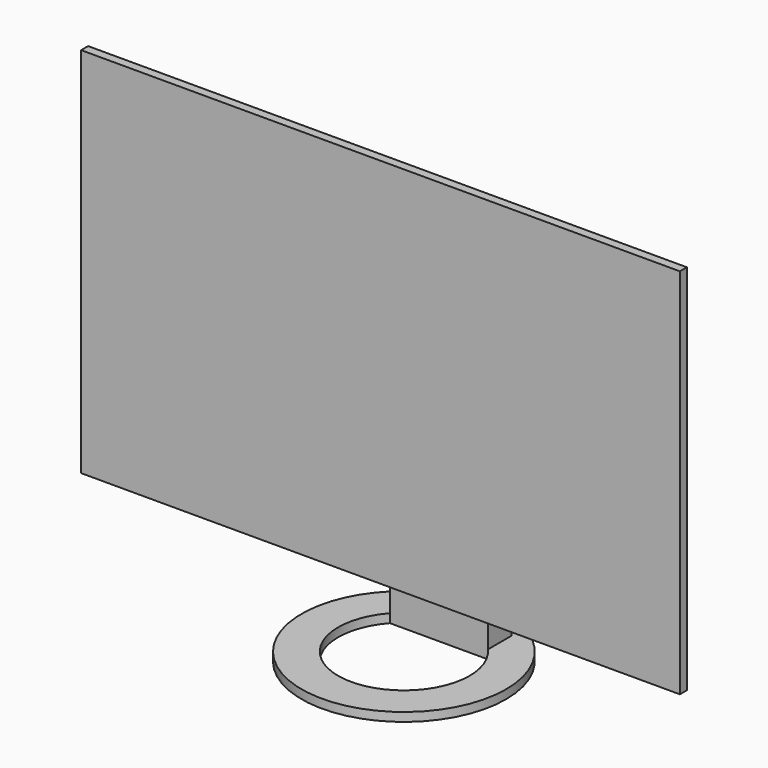
from build123d import *

# Parameters (mm, degrees)
F0_W     = 520.7
F0_H     = 323.85
F1_DEPTH = 7.62
F3_R     = 88.9
F3_R_2   = 57.15
F4_DEPTH = 7.62
F5_W     = 85.19419
F5_H     = 25.4
F6_DEPTH = 38.1
F8_DEPTH = 85.19419


with BuildPart() as f1:
    # F0 (on Front) → F1 (new body)
    with BuildSketch(Plane.XZ):
        with Locations((260.35, 161.925)):
            Rectangle(F0_W, F0_H)
    extrude(amount=-F1_DEPTH)



with BuildPart() as f4:
    # F3 (on offset) → F4 (new body)
    with BuildSketch(Plane.XY.offset(-69.85)):
        with Locations((260.35, 25.4)):
            Circle(F3_R)
        with Locations((260.35, 25.4)):
            Circle(F3_R_2, mode=Mode.SUBTRACT)
    extrude(amount=F4_DEPTH)

    # F5 (on offset) → F6 (join)
    with BuildSketch(Plane.XY.offset(-69.85)):
        with Locations((260.35, 76.2)):
            Rectangle(F5_W, F5_H)
    extrude(amount=F6_DEPTH)


with BuildPart() as f1_1:
    add(f1.part)

    add(f4.part)  # F8 merges F4
    # F7 (on face) → F8 (join, through all)
    with BuildSketch(Plane.YZ.offset(302.947095)):
        Polygon((7.62, 31.75), (63.5, -31.75), (88.9, -31.75), (13.97, 107.95), (7.62, 107.95), align=None)
    extrude(amount=-F8_DEPTH)


solid = f1_1.part
